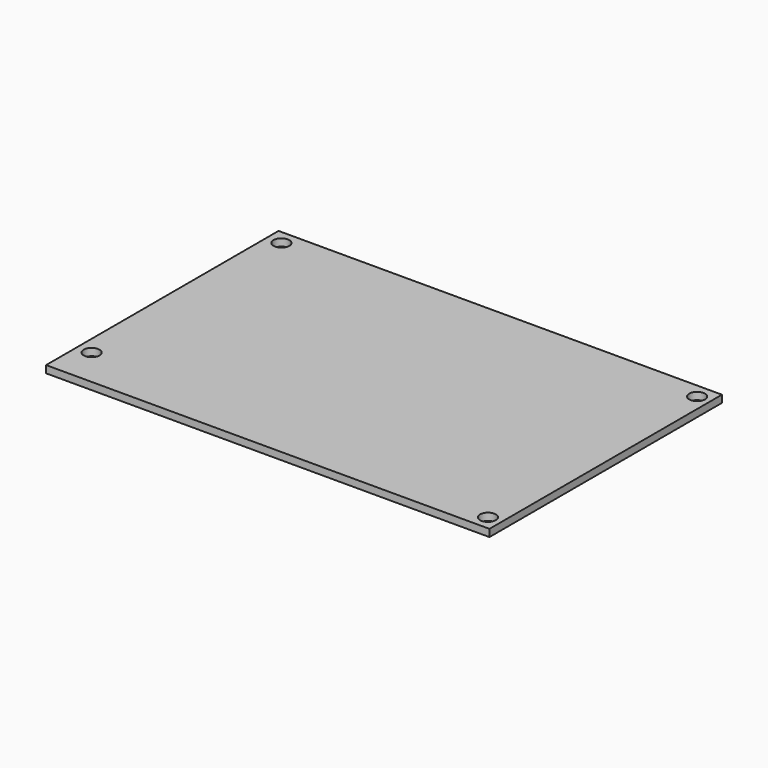
from build123d import *

# Parameters (mm, degrees)
SKETCH_W  = 91.55
SKETCH_H  = 60
SKETCH_R  = 1.63
PAD_DEPTH = 1.5


with BuildPart() as part:
    # Sketch → Pad (new body)
    with BuildSketch(Plane.XY):
        with Locations((45.775, 30)):
            Rectangle(SKETCH_W, SKETCH_H)
        with Locations((3, 57)):
            Circle(SKETCH_R, mode=Mode.SUBTRACT)
        with Locations((3, 8)):
            Circle(SKETCH_R, mode=Mode.SUBTRACT)
        with Locations((88.83, 57)):
            Circle(SKETCH_R, mode=Mode.SUBTRACT)
        with Locations((88.83, 3)):
            Circle(SKETCH_R, mode=Mode.SUBTRACT)
    extrude(amount=PAD_DEPTH)


solid = part.part
